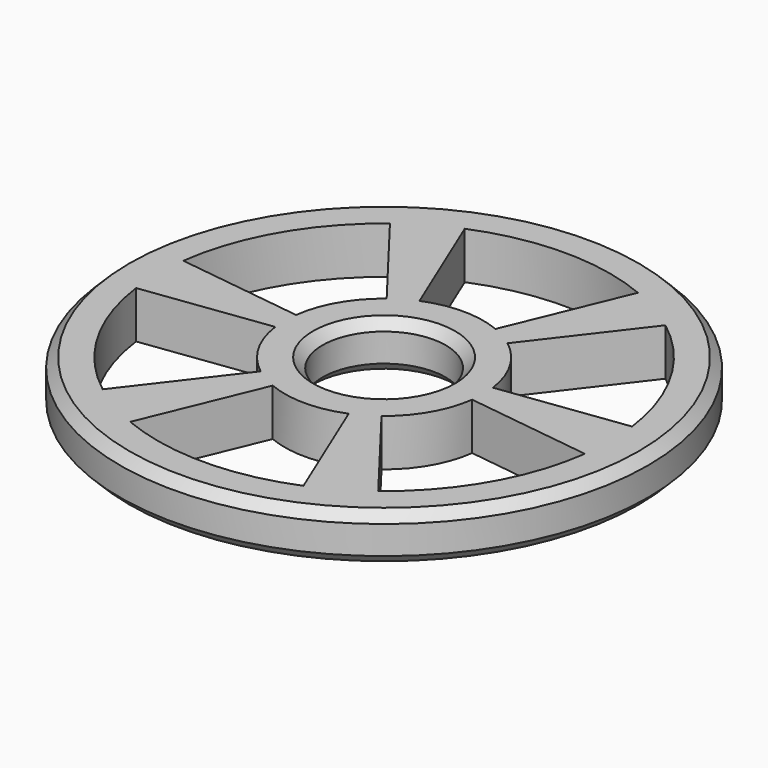
from build123d import *

# Parameters (mm, degrees)
F1_R     = 28.05
F1_R_2   = 6.55
F2_DEPTH = 5
F3_SIZE  = 1
F5_DEPTH = 5.001


with BuildPart() as f2:
    # F1 (on Top) → F2 (new body)
    with BuildSketch(Plane.XY):
        Circle(F1_R)
        Circle(F1_R_2, mode=Mode.SUBTRACT)
    extrude(amount=F2_DEPTH)

    # F3
    f3_edges = [f2.edges().sort_by_distance(p)[0] for p in [
        (-28.05, 0, 0),
        (-28.05, 0, 5),
        (-6.55, 0, 5),
        (-6.55, 0, 0),
    ]]
    chamfer(f3_edges, length=F3_SIZE)

    # F4 (on face) → F5 (cut, through all)
    with BuildSketch(Plane.XY.offset(5)):
        with BuildLine():
            Line((4.0373102115, 9.746929068), (9.2035365484, 22.2193027569))
            ThreePointArc((9.2035365484, 22.2193027569), (0, 24.05), (-9.2035365484, 22.2193027569))
            Line((-9.2035365484, 22.2193027569), (-4.0373102115, 9.746929068))
            ThreePointArc((-4.0373102115, 9.746929068), (0, 10.55), (4.0373102115, 9.746929068))
        make_face()
        with BuildLine():
            ThreePointArc((-14.6407123677, 19.080147834), (-20.827910961, 12.025), (-23.844248916, 3.1391549229))
            Line((-23.844248916, 3.1391549229), (-10.4597432875, 1.3770513279))
            ThreePointArc((-10.4597432875, 1.3770513279), (-9.1365680099, 5.275), (-6.422433076, 8.3698777401))
            Line((-6.422433076, 8.3698777401), (-14.6407123677, 19.080147834))
        make_face()
        with BuildLine():
            ThreePointArc((-23.844248916, -3.1391549229), (-20.827910961, -12.025), (-14.6407123677, -19.080147834))
            Line((-14.6407123677, -19.080147834), (-6.422433076, -8.3698777401))
            ThreePointArc((-6.422433076, -8.3698777401), (-9.1365680099, -5.275), (-10.4597432875, -1.3770513279))
            Line((-10.4597432875, -1.3770513279), (-23.844248916, -3.1391549229))
        make_face()
        with BuildLine():
            ThreePointArc((-9.2035365484, -22.2193027569), (0, -24.05), (9.2035365484, -22.2193027569))
            Line((9.2035365484, -22.2193027569), (4.0373102115, -9.746929068))
            ThreePointArc((4.0373102115, -9.746929068), (0, -10.55), (-4.0373102115, -9.746929068))
            Line((-4.0373102115, -9.746929068), (-9.2035365484, -22.2193027569))
        make_face()
        with BuildLine():
            ThreePointArc((14.6407123677, -19.080147834), (20.827910961, -12.025), (23.844248916, -3.1391549229))
            Line((23.844248916, -3.1391549229), (10.4597432875, -1.3770513279))
            ThreePointArc((10.4597432875, -1.3770513279), (9.1365680099, -5.275), (6.422433076, -8.3698777401))
            Line((6.422433076, -8.3698777401), (14.6407123677, -19.080147834))
        make_face()
        with BuildLine():
            ThreePointArc((23.844248916, 3.1391549229), (20.827910961, 12.025), (14.6407123677, 19.080147834))
            Line((14.6407123677, 19.080147834), (6.422433076, 8.3698777401))
            ThreePointArc((6.422433076, 8.3698777401), (9.1365680099, 5.275), (10.4597432875, 1.3770513279))
            Line((10.4597432875, 1.3770513279), (23.844248916, 3.1391549229))
        make_face()
    extrude(amount=-F5_DEPTH, mode=Mode.SUBTRACT)


solid = f2.part
